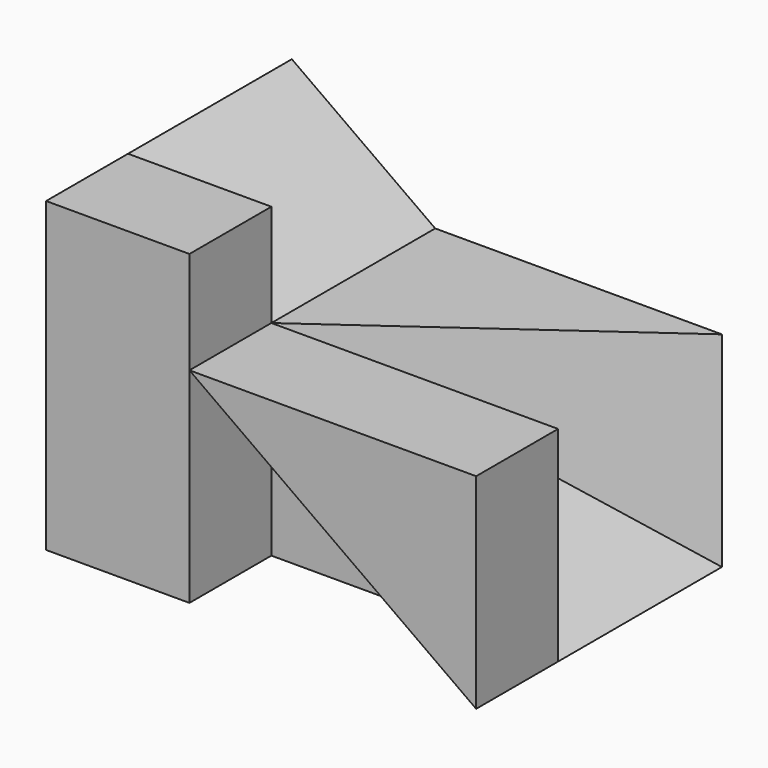
from build123d import *

# Parameters (mm, degrees)
F1_DEPTH = 30
F3_DEPTH = 20
F5_DEPTH = 30.001
F7_DEPTH = 20
F8_DEPTH = 10
F9_DEPTH = 10


with BuildPart() as f1:
    # F0 (on Front) → F1 (new body)
    with BuildSketch(Plane.XZ):
        Polygon((0, 30), (0, 0), (42, 0), (42, 20), (14, 20), (14, 30), align=None)
    extrude(amount=F1_DEPTH)

    # F2 (on face) → F3 (cut)
    with BuildSketch(Plane(origin=(0, 0, 0), x_dir=(-1, 0, 0), z_dir=(0, 1, 0))):
        Polygon((-14, 20), (0, 30), (-14, 30), align=None)
    extrude(amount=-F3_DEPTH, mode=Mode.SUBTRACT)

    # F4 (on face) → F5 (cut, through all)
    with BuildSketch(Plane.XZ.offset(30)):
        Polygon((42, 20), (14, 20), (42, 0), align=None)
    extrude(amount=-F5_DEPTH, mode=Mode.SUBTRACT)

    # F6 (on face) → F7 (join)
    with BuildSketch(Plane(origin=(0, 0, 0), x_dir=(1, 0, 0), z_dir=(0, 0, -1))):
        Polygon((14, 0), (42, 0), (14, 20), align=None)
    extrude(amount=-F7_DEPTH)

    # F4 (on face) → F8 (join)
    with BuildSketch(Plane.XZ.offset(30)):
        Polygon((42, 20), (14, 20), (42, 0), align=None)
    extrude(amount=-F8_DEPTH)

    # F4 (on face) → F9 (cut)
    with BuildSketch(Plane.XZ.offset(30)):
        Polygon((42, 0), (14, 20), (14, 0), align=None)
    extrude(amount=-F9_DEPTH, mode=Mode.SUBTRACT)


solid = f1.part
